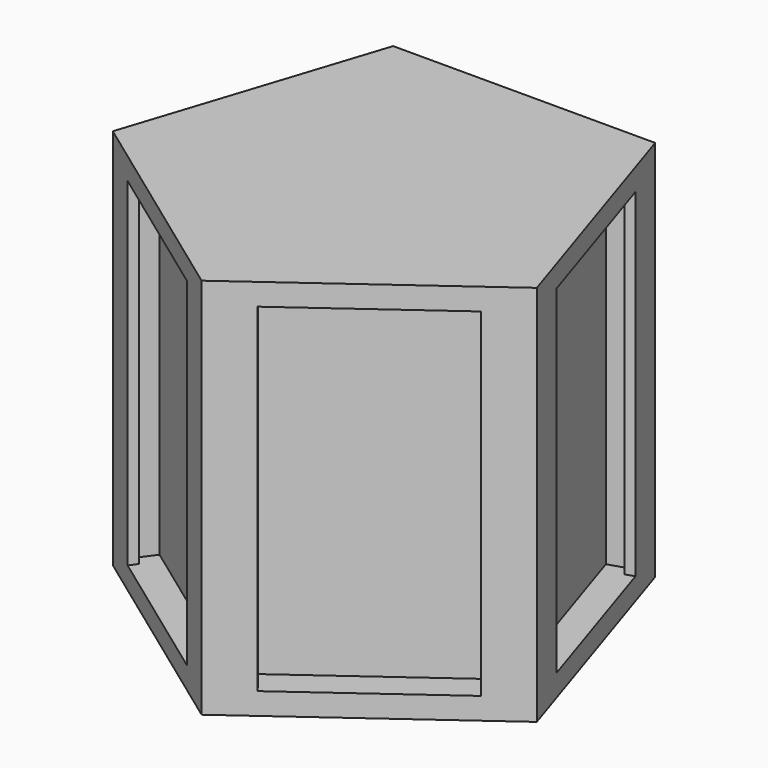
from build123d import *

# Parameters (mm, degrees)
F1_DEPTH = 16.5
F2_R     = 6.48
F3_DEPTH = 15.5
F5_DEPTH = 1
F6_DEPTH = 15.5


with BuildPart() as f1:
    # F0 (on Top) → F1 (new body)
    with BuildSketch(Plane.XY):
        Polygon((6, 8.2582915228), (-6, 8.2582915228), (-9.7082039325, -3.1543866727), (0, -10.2078097002), (9.7082039325, -3.1543866727), align=None)
    extrude(amount=F1_DEPTH)

    # F2 (on face) → F3 (cut)
    with BuildSketch(Plane.XY.offset(16.5)):
        Polygon((-7.8433001378, -3.9901700397), (-8.0901699437, -4.3299571773), (-1.6180339887, -9.0322391956), (-1.3711641828, -8.692452058), (-0.9666556856, -8.9863446841), (-0.4376489585, -8.2582293892), (-7.7188019079, -2.9681621186), (-8.247808635, -3.6962774135), align=None)
        Polygon((-6.6180339887, 6.3561784902), (-9.0901699437, -1.2522736401), (-8.6907262069, -1.3820607778), (-8.8452347041, -1.8575890359), (-7.9892838394, -2.1357043308), (-5.2081308901, 6.4238043158), (-6.0640817547, 6.7019196107), (-6.2185902519, 6.2263913526), align=None)
        Polygon((1.6180339887, -9.0322391956), (8.0901699437, -4.3299571773), (7.8433001378, -3.9901700397), (8.247808635, -3.6962774135), (7.7188019079, -2.9681621186), (0.4376489585, -8.2582293892), (0.9666556856, -8.9863446841), (1.3711641828, -8.692452058), align=None)
        Polygon((4, 8.2582915228), (-4, 8.2582915228), (-4, 7.8382915228), (-4.5, 7.8382915228), (-4.5, 6.9382915228), (4.5, 6.9382915228), (4.5, 7.8382915228), (4, 7.8382915228), align=None)
        Polygon((9.0901699437, -1.2522736401), (6.6180339887, 6.3561784902), (6.2185902519, 6.2263913526), (6.0640817547, 6.7019196107), (5.2081308901, 6.4238043158), (7.9892838394, -2.1357043308), (8.8452347041, -1.8575890359), (8.6907262069, -1.3820607778), align=None)
        Circle(F2_R)
    extrude(amount=-F3_DEPTH, mode=Mode.SUBTRACT)

    # F4 (on face) → F5 (join)
    with BuildSketch(Plane.XY.offset(16.5)):
        Polygon((6, 8.2582915228), (-6, 8.2582915228), (-9.7082039325, -3.1543866727), (0, -10.2078097002), (9.7082039325, -3.1543866727), align=None)
    extrude(amount=F5_DEPTH)

    # F2 (on face) → F6 (cut)
    with BuildSketch(Plane.XY.offset(16.5)):
        Polygon((-7.8433001378, -3.9901700397), (-8.0901699437, -4.3299571773), (-1.6180339887, -9.0322391956), (-1.3711641828, -8.692452058), (-0.9666556856, -8.9863446841), (-0.4376489585, -8.2582293892), (-7.7188019079, -2.9681621186), (-8.247808635, -3.6962774135), align=None)
        Polygon((-6.6180339887, 6.3561784902), (-9.0901699437, -1.2522736401), (-8.6907262069, -1.3820607778), (-8.8452347041, -1.8575890359), (-7.9892838394, -2.1357043308), (-5.2081308901, 6.4238043158), (-6.0640817547, 6.7019196107), (-6.2185902519, 6.2263913526), align=None)
        Polygon((1.6180339887, -9.0322391956), (8.0901699437, -4.3299571773), (7.8433001378, -3.9901700397), (8.247808635, -3.6962774135), (7.7188019079, -2.9681621186), (0.4376489585, -8.2582293892), (0.9666556856, -8.9863446841), (1.3711641828, -8.692452058), align=None)
        Polygon((4, 8.2582915228), (-4, 8.2582915228), (-4, 7.8382915228), (-4.5, 7.8382915228), (-4.5, 6.9382915228), (4.5, 6.9382915228), (4.5, 7.8382915228), (4, 7.8382915228), align=None)
        Polygon((9.0901699437, -1.2522736401), (6.6180339887, 6.3561784902), (6.2185902519, 6.2263913526), (6.0640817547, 6.7019196107), (5.2081308901, 6.4238043158), (7.9892838394, -2.1357043308), (8.8452347041, -1.8575890359), (8.6907262069, -1.3820607778), align=None)
        Circle(F2_R)
    extrude(amount=-F6_DEPTH, mode=Mode.SUBTRACT)


solid = f1.part
